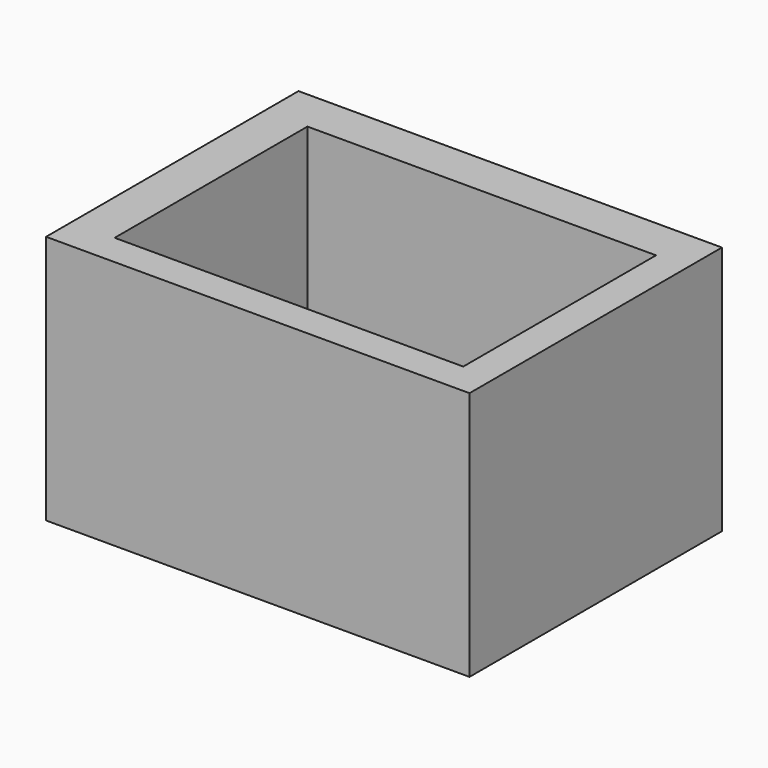
from build123d import *

# Parameters (mm, degrees)
F1_DEPTH = 25.4
F2_W     = 818.142758
F2_H     = 609.6
F2_W_2   = 673.508524
F2_H_2   = 465.51621
F3_DEPTH = 457.2


with BuildPart() as f1:
    # F0 (on Top) → F1 (new body)
    with BuildSketch(Plane.XY):
        Polygon((-419.684784, 314.825026), (398.457974, -294.774974), (398.457974, 314.825026), align=None)
        Polygon((-419.684784, -294.774974), (398.457974, -294.774974), (-419.684784, 314.825026), align=None)
    extrude(amount=F1_DEPTH)

    # F2 (on face) → F3 (join)
    with BuildSketch(Plane.XY.offset(25.4)):
        with Locations((-10.613405, 10.025026)):
            Rectangle(F2_W, F2_H)
        Rectangle(F2_W_2, F2_H_2, mode=Mode.SUBTRACT)
    extrude(amount=F3_DEPTH)


solid = f1.part
